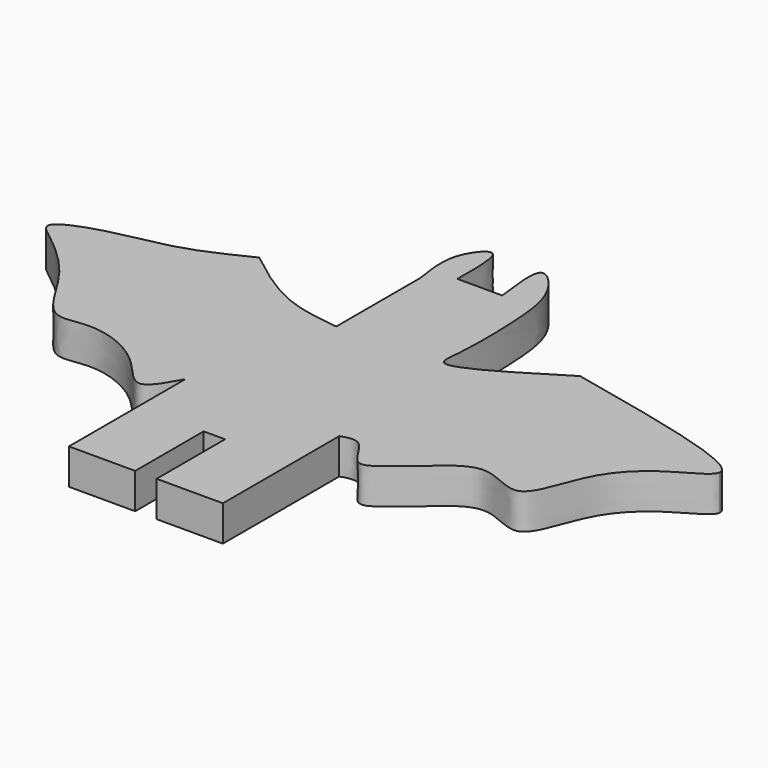
from build123d import *

# Parameters (mm, degrees)
F0_R     = 3.0828871826
F1_DEPTH = 3


with BuildPart() as f1:
    # F0 (on Top) → F1 (new body)
    with BuildSketch(Plane.XY):
        with BuildLine():
            add(Edge.make_bspline(
                [(0, 26.9431930702), (-0.0813812973, 26.3198887815), (-3.2624966971, 24.9001450806), (-6.7236197926, 21.6058290491), (-8.047824953, 14.958252634), (-12.4881969458, 18.69827943), (-15.7860160219, 15.3609723167), (-17.4186694562, 14.2705259024), (-19.6178971471, 12.2070789577), (-20.9098004004, 15.9415175837), (-22.227422942, 15.517953223), (-22.7963905782, 15.3350522742)],
                knots=[0.2056938811, 0.2056938811, 0.2056938811, 0.2056938811, 0.2901090655, 0.4064480196, 0.5159141319, 0.6110485889, 0.709223929, 0.7842049719, 0.8544321479, 0.9371417882, 1, 1, 1, 1], degree=3))
            Line((0, 26.9431930702), (0, 27.0618572831))
            add(Edge.make_bspline(
                [(-15.7603081316, 31.932990998), (-7.9789830104, 30.2417813469), (-0.1976578892, 28.5505716959), (0, 27.0618572831)],
                knots=[0, 0, 0, 0, 0.2003529217, 0.2003529217, 0.2003529217, 0.2003529217], degree=3))
            add(Edge.make_bspline(
                [(-26.945874095, 37.7061851323), (-27.205382433, 39.6694506358), (-27.6633662123, 43.1342478047), (-24.4962157439, 39.9852406429), (-23.9531127342, 35.6408540235), (-23.9049484672, 29.7789021763), (-24.5303178112, 26.4597153594), (-19.3793441987, 29.674386656), (-15.7603081316, 31.932990998)],
                knots=[0, 0, 0, 0, 0.1621393755, 0.2861457343, 0.46078606, 0.6579211984, 0.7596579571, 1, 1, 1, 1], degree=3))
            Line((-26.945874095, 37.7061851323), (-30.7345353067, 37.7061851323))
            add(Edge.make_bspline(
                [(-32.7190719545, 36.2628884614), (-32.9513847642, 37.703457619), (-33.3517912503, 40.1863738005), (-30.6882267352, 43.3305431804), (-30.7174194262, 39.7849760994), (-30.7345353067, 37.7061851323)],
                knots=[0, 0, 0, 0, 0.3637631614, 0.6269698576, 1, 1, 1, 1], degree=3))
            Line((-32.7190719545, 36.2628884614), (-32.7190719545, 27.4226814508))
            add(Edge.make_bspline(
                [(-42.822163552, 31.932990998), (-41.0976982257, 30.5953016566), (-37.8329740247, 28.0628142243), (-34.3583561983, 27.6278788823), (-32.7190719545, 27.4226814508)],
                knots=[0, 0, 0, 0, 0.5282116406, 1, 1, 1, 1], degree=3))
            add(Edge.make_bspline(
                [(-35.7860811055, 15.3350522742), (-36.4322607488, 14.167013573), (-37.7760745919, 11.7379265662), (-40.2894755189, 15.9450337697), (-45.2362494543, 17.8726257703), (-48.6869591399, 16.3559896358), (-51.2001222037, 22.0711276856), (-55.103178445, 25.4293781719), (-57.4400981183, 27.0406956043), (-52.8604368637, 28.8518746537), (-47.8206585503, 29.4611669546), (-44.4852188796, 31.1105874255), (-42.822163552, 31.932990998)],
                knots=[0, 0, 0, 0, 0.0866426348, 0.1801845249, 0.2935515974, 0.3775347168, 0.492533352, 0.6096451972, 0.6733961915, 0.7675842369, 0.8841171446, 1, 1, 1, 1], degree=3))
            Line((-35.7860811055, 15.3350522742), (-35.7860811055, 3.067010548))
            Line((-35.7860811055, 3.067010548), (-30.1932971925, 3.067010548))
            Line((-30.1932971925, 3.067010548), (-30.1932971925, 4.6907220967))
            Line((-30.1932971925, 4.6907220967), (-30.1932971925, 10.2835055441))
            Line((-30.1932971925, 10.2835055441), (-28.3891744912, 10.2835055441))
            Line((-28.3891744912, 10.2835055441), (-28.3891744912, 3.067010548))
            Line((-28.3891744912, 3.067010548), (-22.7963905782, 3.067010548))
            Line((-22.7963905782, 3.067010548), (-22.7963905782, 15.3350522742))
        make_face()
        with Locations((-41.4046421647, 24.7164946049)):
            Circle(F0_R, mode=Mode.SUBTRACT)
        with Locations((-41.4046421647, 24.7164946049)):
            Circle(F0_R)
    extrude(amount=F1_DEPTH)


solid = f1.part
